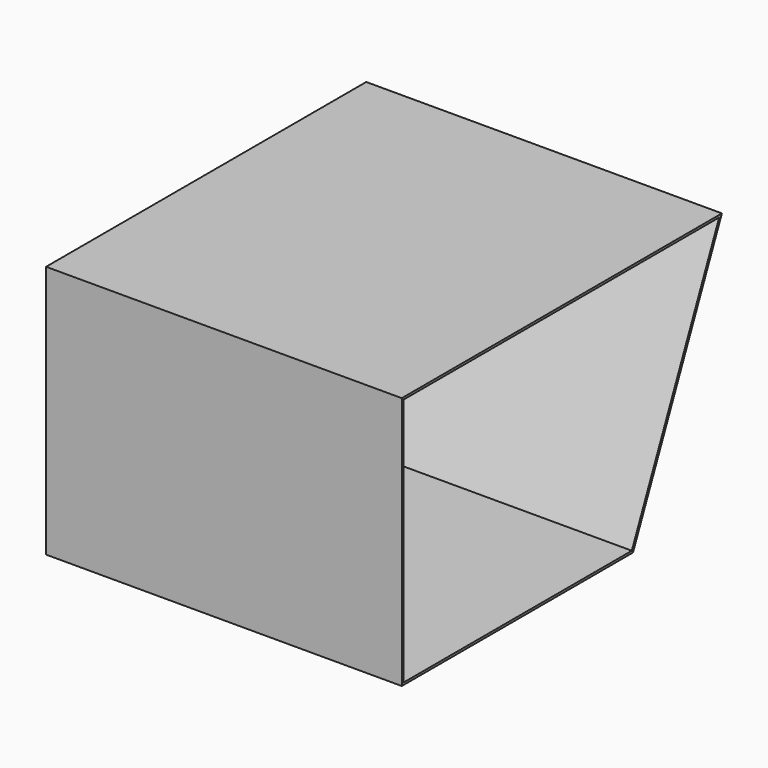
from build123d import *

# Parameters (mm, degrees)
F1_DEPTH = 400
F2_T     = -2.5


with BuildPart() as f1:
    # F0 (on Right) → F1 (new body)
    with BuildSketch(Plane.YZ):
        Polygon((286.688396, 183.30926), (-163.311604, 183.30926), (-163.311604, -101.69074), (161.688396, -101.69074), align=None)
    extrude(amount=-F1_DEPTH)

    # F2
    f2_openings = [f1.faces().sort_by_distance(p)[0] for p in [
        (0, 32.118504, 48.470551),
    ]]
    offset(amount=F2_T, openings=f2_openings)


solid = f1.part
